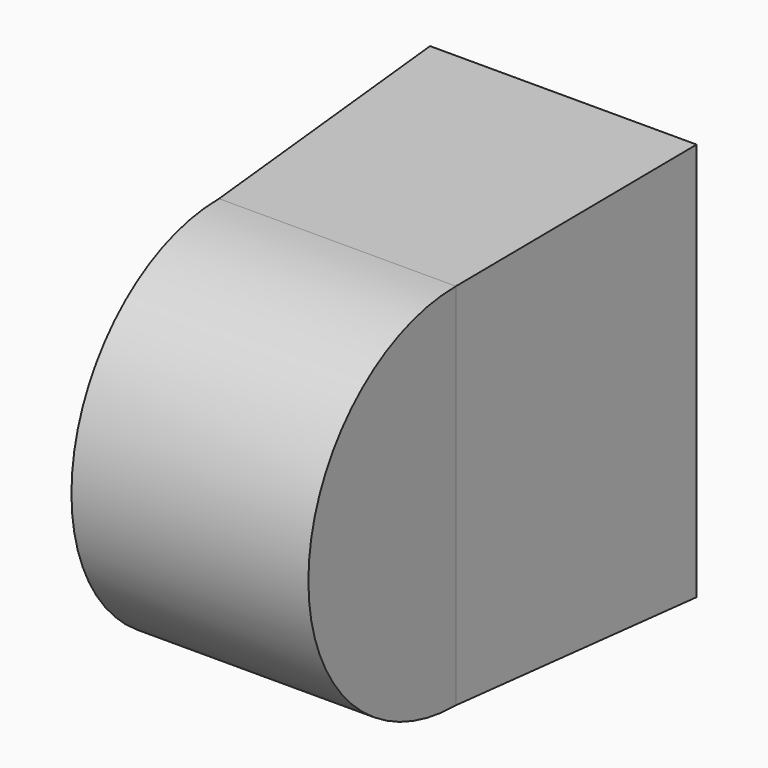
from build123d import *

# Parameters (mm, degrees)
F0_W      = 76.0117769241
F0_H      = 59.1742545366
F1_ANGLE  = 180
F1_FACE_W = 76.0117769241
F1_FACE_H = 118.3485090733
F2_DEPTH  = 90.5473530293
F2_TAPER  = -3


with BuildPart() as f1:
    # F0 (on Front) → F1 (revolve)
    with BuildSketch(Plane.XZ):
        Rectangle(F0_W, F0_H)
    revolve(axis=Axis((0, 0, 29.5871272683), (-1, 0, 0)), revolution_arc=F1_ANGLE)

    # F1_face (on face) → F2 (join)
    with BuildSketch(Plane(origin=(0, 0, 29.5871272683), x_dir=(-1, 0, 0), z_dir=(0, 1, 0))):
        Rectangle(F1_FACE_W, F1_FACE_H)
    extrude(amount=F2_DEPTH, taper=F2_TAPER)


solid = f1.part
